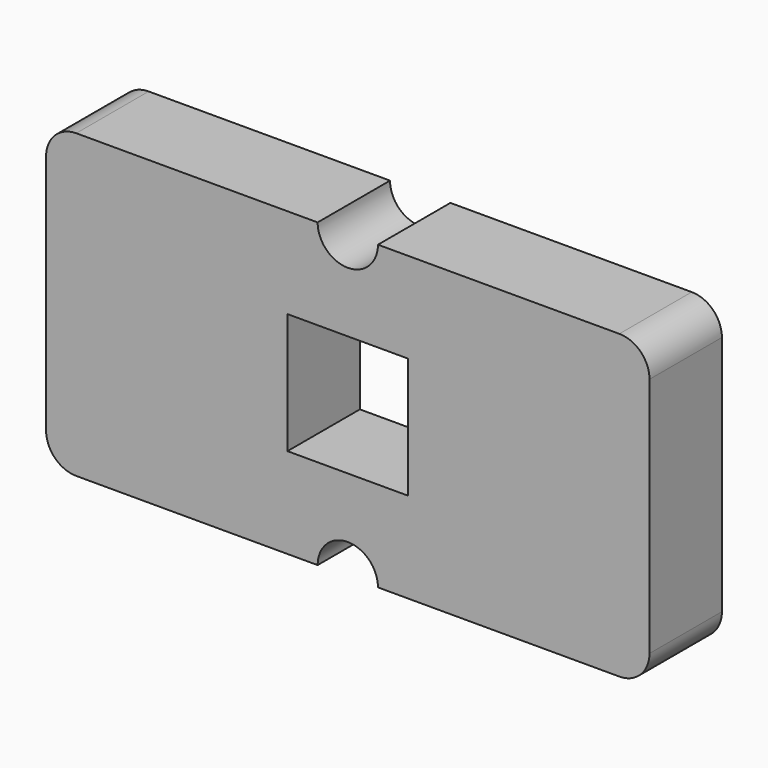
from build123d import *

# Parameters (mm, degrees)
F0_W     = 50.8
F0_H     = 50.8
F1_DEPTH = 38.1


with BuildPart() as f1:
    # F0 (on Front) → F1 (new body)
    with BuildSketch(Plane.XZ):
        with BuildLine():
            Line((-11.355293, 56.950803), (-112.955293, 56.950803))
            ThreePointArc((-112.955293, 56.950803), (-121.935549, 53.231059), (-125.655293, 44.250803))
            Line((-125.655293, 44.250803), (-125.655293, -57.349197))
            ThreePointArc((-125.655293, -57.349197), (-121.935549, -66.329453), (-112.955293, -70.049197))
            Line((-112.955293, -70.049197), (-11.355293, -70.049197))
            ThreePointArc((-11.355293, -70.049197), (1.344707, -57.349197), (14.044707, -70.049197))
            Line((14.044707, -70.049197), (115.644707, -70.049197))
            ThreePointArc((115.644707, -70.049197), (124.624963, -66.329453), (128.344707, -57.349197))
            Line((128.344707, -57.349197), (128.344707, 44.250803))
            ThreePointArc((128.344707, 44.250803), (124.624963, 53.231059), (115.644707, 56.950803))
            Line((115.644707, 56.950803), (14.044707, 56.950803))
            ThreePointArc((14.044707, 56.950803), (1.344707, 44.250803), (-11.355293, 56.950803))
        make_face()
        with Locations((1.344707, -6.549197)):
            Rectangle(F0_W, F0_H, mode=Mode.SUBTRACT)
    extrude(amount=F1_DEPTH)


solid = f1.part
